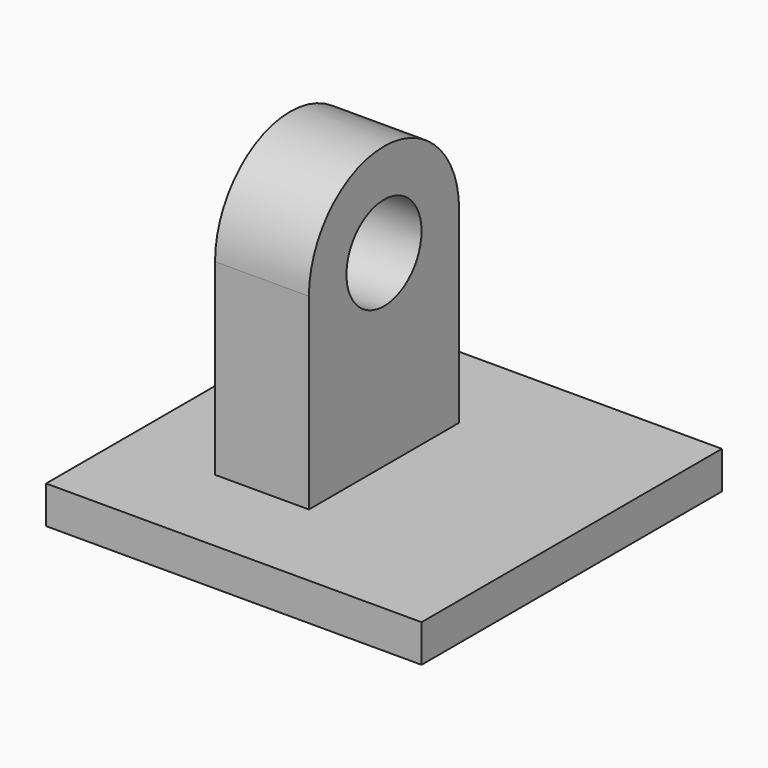
from build123d import *

# Parameters (mm, degrees)
F0_W     = 254
F0_H     = 254
F1_DEPTH = 25.4
F2_W     = 63.5
F2_H     = 127
F3_DEPTH = 127
F4_R     = 63.5
F5_DEPTH = 63.5
F6_R     = 31.75
F7_DEPTH = 63.5


with BuildPart() as f1:
    # F0 (on Top) → F1 (new body)
    with BuildSketch(Plane.XY):
        Rectangle(F0_W, F0_H)
    extrude(amount=F1_DEPTH)

    # F2 (on face) → F3 (join)
    with BuildSketch(Plane.XY.offset(25.4)):
        with Locations((-31.75, 0)):
            Rectangle(F2_W, F2_H)
    extrude(amount=F3_DEPTH)

    # F4 (on face) → F5 (join)
    with BuildSketch(Plane(origin=(-63.5, 0, 0), x_dir=(0, -1, 0), z_dir=(-1, 0, 0))):
        with Locations((0, 152.4)):
            Circle(F4_R)
    extrude(amount=-F5_DEPTH)

    # F6 (on face) → F7 (cut, through all)
    with BuildSketch(Plane.YZ):
        with Locations((0, 152.4)):
            Circle(F6_R)
    extrude(amount=-F7_DEPTH, mode=Mode.SUBTRACT)


solid = f1.part
